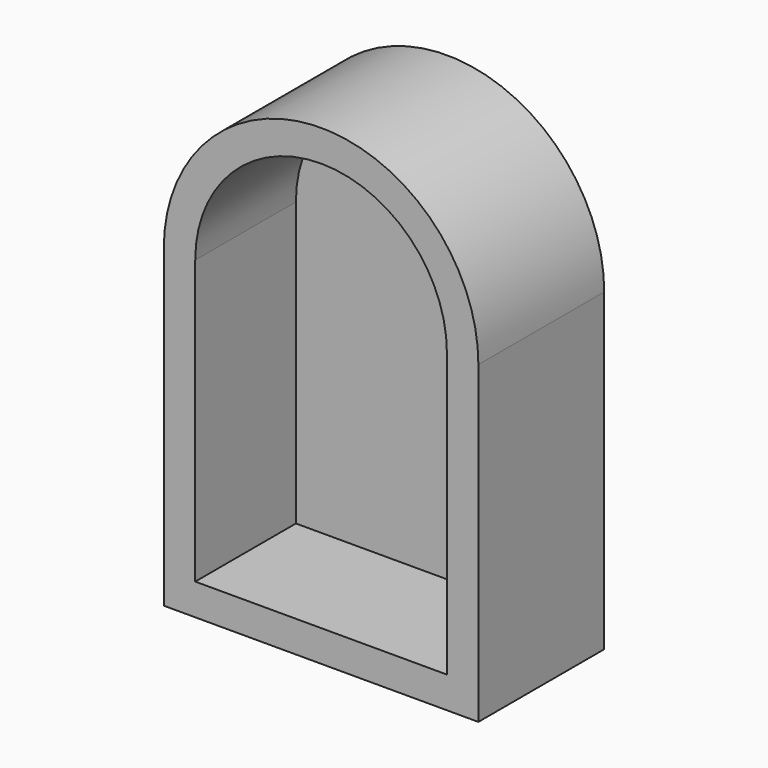
from build123d import *

# Parameters (mm, degrees)
F0_W     = 304.8
F0_H     = 304.8
F1_DEPTH = 152.4
F3_DEPTH = 152.4
F5_DEPTH = 121.92


with BuildPart() as f1:
    # F0 (on Front) → F1 (new body)
    with BuildSketch(Plane.XZ):
        Rectangle(F0_W, F0_H)
    extrude(amount=F1_DEPTH)

    # F2 (on face) → F3 (join)
    with BuildSketch(Plane.XZ.offset(152.4)):
        with BuildLine():
            Line((-152.4, 152.4), (152.4, 152.4))
            ThreePointArc((152.4, 152.4), (0, 304.8), (-152.4, 152.4))
        make_face()
    extrude(amount=-F3_DEPTH)

    # F4 (on face) → F5 (cut)
    with BuildSketch(Plane.XZ.offset(152.4)):
        with BuildLine():
            Line((-121.92, 152.4), (-121.92, -121.92))
            Line((-121.92, -121.92), (121.92, -121.92))
            Line((121.92, -121.92), (121.92, 152.4))
            ThreePointArc((121.92, 152.4), (0, 274.32), (-121.92, 152.4))
        make_face()
    extrude(amount=-F5_DEPTH, mode=Mode.SUBTRACT)


solid = f1.part
